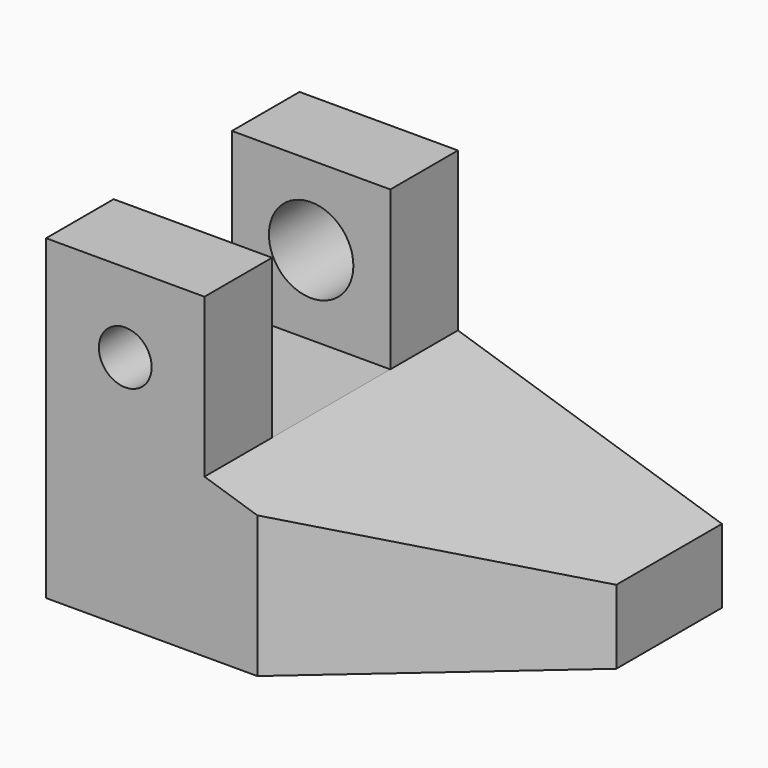
from build123d import *

# Parameters (mm, degrees)
SKETCH_W        = 80
SKETCH_H        = 60
PAD_DEPTH       = 30
POCKET_DEPTH    = 30
SKETCH003_W     = 30
SKETCH003_H     = 16
PAD001_DEPTH    = 30
POCKET001_DEPTH = 60
SKETCH005_R     = 5
HOLE_DEPTH      = 16
SKETCH006_R     = 8
HOLE001_DEPTH   = 16


with BuildPart() as part:
    # Sketch → Pad (new body)
    with BuildSketch(Plane.XY):
        with Locations((40, 30)):
            Rectangle(SKETCH_W, SKETCH_H)
    extrude(amount=PAD_DEPTH)

    # Sketch001 (on Face6 of Pad) → Pocket (cut)
    with BuildSketch(Plane.XY.offset(30)):
        Polygon((80, 0), (80, 35), (40, 0), align=None)
    extrude(amount=-POCKET_DEPTH, mode=Mode.SUBTRACT)

    # Sketch003 (on Face4 of Pocket) → Pad001 (join)
    with BuildSketch(Plane.XY.offset(30)):
        with Locations((15, 8)):
            Rectangle(SKETCH003_W, SKETCH003_H)
        with Locations((15, 52)):
            Rectangle(SKETCH003_W, SKETCH003_H)
    extrude(amount=PAD001_DEPTH)

    # Sketch004 (on Face7 of Pad001) → Pocket001 (cut)
    with BuildSketch(Plane(origin=(0, 60, 0), x_dir=(-1, 0, 0), z_dir=(0, 1, 0))):
        Polygon((-30, 30), (-80, 14), (-80, 30), align=None)
    extrude(amount=-POCKET001_DEPTH, mode=Mode.SUBTRACT)

    # Sketch005 (on Face5 of Pocket001) → Hole (cut)
    with BuildSketch(Plane.XZ):
        with Locations((15, 45)):
            Circle(SKETCH005_R)
    extrude(amount=-HOLE_DEPTH, mode=Mode.SUBTRACT)

    # Sketch006 (on Face17 of Hole) → Hole001 (cut)
    with BuildSketch(Plane.XZ.offset(-44)):
        with Locations((15, 45)):
            Circle(SKETCH006_R)
    extrude(amount=-HOLE001_DEPTH, mode=Mode.SUBTRACT)


solid = part.part
